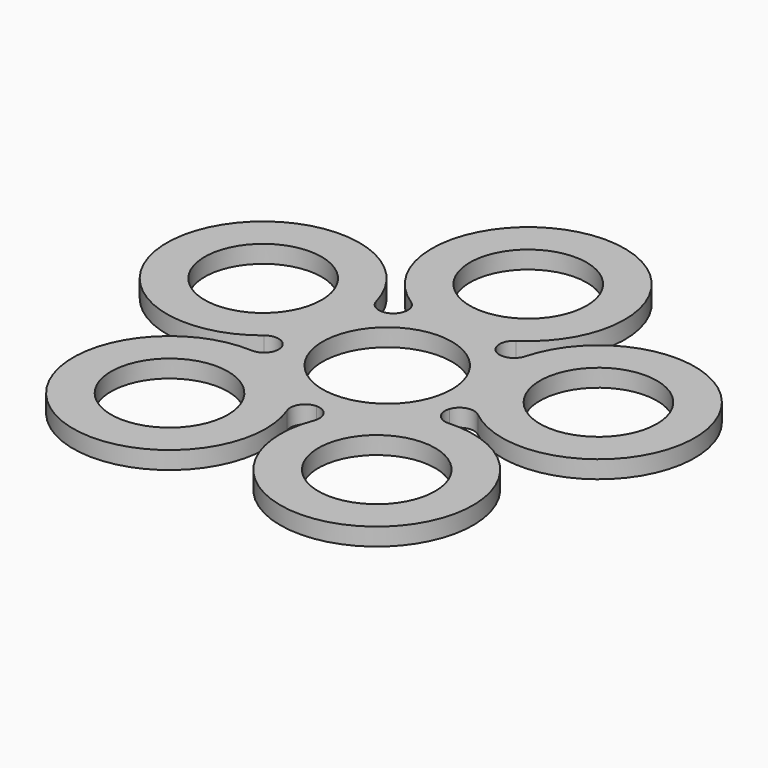
from build123d import *

# Parameters (mm, degrees)
F0_R     = 9.95
F0_R_2   = 11
F1_DEPTH = 3


with BuildPart() as f1:
    # F0 (on Top) → F1 (new body)
    with BuildSketch(Plane.XY):
        with BuildLine():
            ThreePointArc((8.816828, 12.135323), (7.805255, 14.220864), (8.941792, 16.241024))
            ThreePointArc((8.941792, 16.241024), (0, 46.409299), (-8.941792, 16.241024))
            ThreePointArc((-8.941792, 16.241024), (-7.805255, 14.220864), (-8.816828, 12.135323))
            ThreePointArc((-8.816828, 12.135323), (-11.112889, 11.817727), (-12.682966, 13.522902))
            ThreePointArc((-12.682966, 13.522902), (-44.137866, 14.341262), (-18.209297, -3.485397))
            ThreePointArc((-18.209297, -3.485397), (-15.936802, -3.02875), (-14.265927, -4.635281))
            ThreePointArc((-14.265927, -4.635281), (-14.673398, -6.917107), (-16.780296, -7.88341))
            ThreePointArc((-16.780296, -7.88341), (-27.278701, -37.545911), (-2.312172, -18.395118))
            ThreePointArc((-2.312172, -18.395118), (-2.04423, -16.092734), (0, -15.000084))
            ThreePointArc((0, -15.000084), (2.04423, -16.092734), (2.312172, -18.395118))
            ThreePointArc((2.312172, -18.395118), (27.278701, -37.545911), (16.780296, -7.88341))
            ThreePointArc((16.780296, -7.88341), (14.673398, -6.917107), (14.265927, -4.635281))
            ThreePointArc((14.265927, -4.635281), (15.936802, -3.02875), (18.209297, -3.485397))
            ThreePointArc((18.209297, -3.485397), (44.137866, 14.341262), (12.682966, 13.522902))
            ThreePointArc((12.682966, 13.522902), (11.112889, 11.817727), (8.816828, 12.135323))
        make_face()
        with Locations((-17.633558, -24.27051)):
            Circle(F0_R, mode=Mode.SUBTRACT)
        with Locations((17.633558, -24.27051)):
            Circle(F0_R, mode=Mode.SUBTRACT)
        Circle(F0_R_2, mode=Mode.SUBTRACT)
        with Locations((-28.531695, 9.27051)):
            Circle(F0_R, mode=Mode.SUBTRACT)
        with Locations((28.531695, 9.27051)):
            Circle(F0_R, mode=Mode.SUBTRACT)
        with Locations((0, 30)):
            Circle(F0_R, mode=Mode.SUBTRACT)
    extrude(amount=F1_DEPTH)


solid = f1.part
